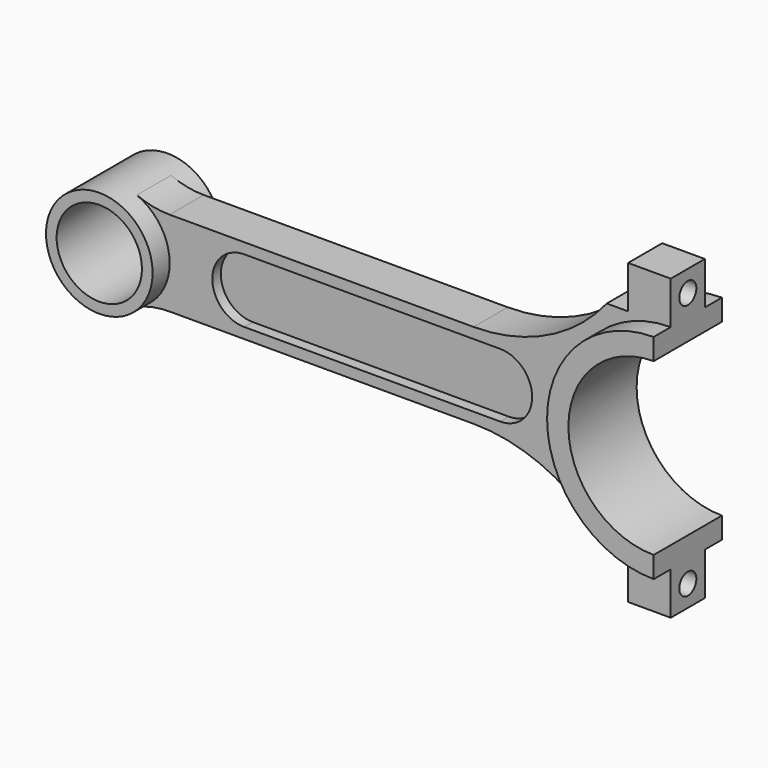
from build123d import *

# Parameters (mm, degrees)
F1_DEPTH  = 6.35
F3_DEPTH  = 3.175
F5_DEPTH  = 3.175
F6_R      = 15.875
F7_DEPTH  = 12.7
F9_DEPTH  = 12.7
F11_DEPTH = 25.401
F12_R     = 12.7
F13_DEPTH = 25.401
F14_R     = 3.175
F15_DEPTH = 180.976


with BuildPart() as f1:
    # F0 (on Front) → F1 (new body, symmetric)
    with BuildSketch(Plane.XZ):
        with BuildLine():
            ThreePointArc((0, -25.4), (-25.4, 0), (0, 25.4))
            Line((0, 25.4), (0, 44.45))
            Line((0, 44.45), (-12.7, 44.45))
            Line((-12.7, 44.45), (-12.7, 31.75))
            Line((-12.7, 31.75), (-19.05, 31.75))
            ThreePointArc((-19.05, 31.75), (-36.7086920337, 17.7094988016), (-58.7057372898, 12.7))
            Line((-58.7057372898, 12.7), (-149.225, 12.7))
            ThreePointArc((-149.225, 12.7), (-154.2063498325, 13.1932508375), (-158.9942307692, 14.6538461538))
            ThreePointArc((-158.9942307692, 14.6538461538), (-180.975, 0), (-158.9942307692, -14.6538461538))
            ThreePointArc((-158.9942307692, -14.6538461538), (-154.2063498325, -13.1932508375), (-149.225, -12.7))
            Line((-149.225, -12.7), (-58.7057372898, -12.7))
            ThreePointArc((-58.7057372898, -12.7), (-36.7086920337, -17.7094988016), (-19.05, -31.75))
            Line((-19.05, -31.75), (-12.7, -31.75))
            Line((-12.7, -31.75), (-12.7, -44.45))
            Line((-12.7, -44.45), (0, -44.45))
            Line((0, -44.45), (0, -25.4))
        make_face()
    extrude(amount=F1_DEPTH, both=True)

    # F2 (on face) → F3 (cut)
    with BuildSketch(Plane.XZ.offset(6.35)):
        with BuildLine():
            ThreePointArc((-127, 9.525), (-136.525, 0), (-127, -9.525))
            Line((-127, -9.525), (-50.8, -9.525))
            ThreePointArc((-50.8, -9.525), (-41.275, 0), (-50.8, 9.525))
            Line((-50.8, 9.525), (-127, 9.525))
        make_face()
    extrude(amount=-F3_DEPTH, mode=Mode.SUBTRACT)

    # F4 (on face) → F5 (cut)
    with BuildSketch(Plane(origin=(0, 6.35, 0), x_dir=(-1, 0, 0), z_dir=(0, 1, 0))):
        with BuildLine():
            ThreePointArc((50.8, 9.525), (41.275, 0), (50.8, -9.525))
            Line((50.8, -9.525), (127, -9.525))
            ThreePointArc((127, -9.525), (136.525, 0), (127, 9.525))
            Line((127, 9.525), (50.8, 9.525))
        make_face()
    extrude(amount=-F5_DEPTH, mode=Mode.SUBTRACT)

    # F6 (on Front) → F7 (join, symmetric)
    with BuildSketch(Plane.XZ):
        with Locations((-165.1, 0)):
            Circle(F6_R)
    extrude(amount=F7_DEPTH, both=True)

    # F8 (on Front) → F9 (join, symmetric)
    with BuildSketch(Plane.XZ):
        with BuildLine():
            Line((0, -31.75), (0, 31.75))
            ThreePointArc((0, 31.75), (-31.75, 0), (0, -31.75))
        make_face()
    extrude(amount=F9_DEPTH, both=True)

    # F10 (on face) → F11 (cut, through all)
    with BuildSketch(Plane.XZ.offset(12.7)):
        with BuildLine():
            Line((0, -25.4), (0, 25.4))
            ThreePointArc((0, 25.4), (-25.4, 0), (0, -25.4))
        make_face()
    extrude(amount=-F11_DEPTH, mode=Mode.SUBTRACT)

    # F12 (on face) → F13 (cut, through all)
    with BuildSketch(Plane.XZ.offset(12.7)):
        with Locations((-165.1, 0)):
            Circle(F12_R)
    extrude(amount=-F13_DEPTH, mode=Mode.SUBTRACT)

    # F14 (on Right) → F15 (cut, through all)
    with BuildSketch(Plane.YZ):
        with Locations((0, 38.1)):
            Circle(F14_R)
        with Locations((0, -38.1)):
            Circle(F14_R)
    extrude(amount=-F15_DEPTH, mode=Mode.SUBTRACT)


solid = f1.part
